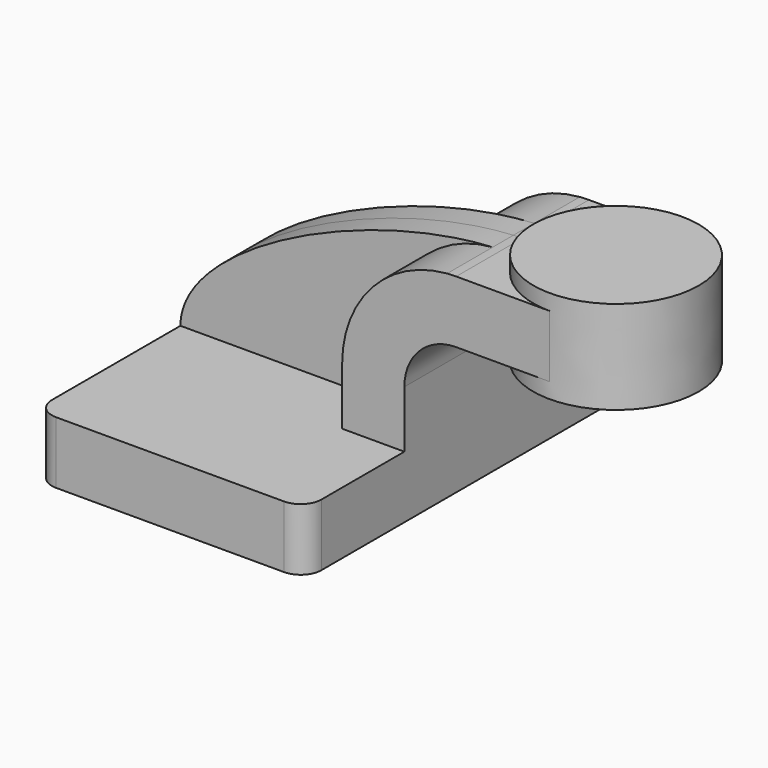
from build123d import *

# Parameters (mm, degrees)
F1_DEPTH = 63.5
F2_DEPTH = 7.9375
F3_DEPTH = 25.4
F5_R     = 6.35
F6_R     = 5.08


with BuildPart() as f1:
    # F0 (on Front) → F1 (new body, symmetric)
    with BuildSketch(Plane.XZ):
        Polygon((-41.275, -9.525), (41.275, -9.525), (41.275, 9.525), (22.225, 9.525), (-41.275, 9.525), align=None)
    extrude(amount=F1_DEPTH, both=True)

    # F0 (on Front) → F2 (join, symmetric)
    with BuildSketch(Plane.XZ):
        with BuildLine():
            add(Edge.make_bspline(
                [(-41.275, 9.525), (-41.1638136776, 33.0921679971), (14.6157059848, 59.6638127103), (54.3682484127, 61.8142414647)],
                knots=[0, 0, 0, 0, 108.9382602659, 108.9382602659, 108.9382602659, 108.9382602659], degree=3))
            Line((-41.275, 9.525), (22.225, 9.525))
            Line((22.225, 9.525), (22.225, 27.0002))
            ThreePointArc((22.225, 27.0002), (31.489638553, 50.6920018607), (54.3682484127, 61.8142414647))
        make_face()
    extrude(amount=F2_DEPTH, both=True)

    # F0 (on Front) → F3 (join, symmetric)
    with BuildSketch(Plane.XZ):
        with BuildLine():
            Line((22.225, 9.525), (41.275, 9.525))
            Line((41.275, 9.525), (41.275, 27.0002))
            ThreePointArc((41.275, 27.0002), (45.9246798487, 38.2255201513), (57.15, 42.8752))
            Line((57.15, 42.8752), (60.325, 42.8752))
            Line((60.325, 42.8752), (60.325, 61.9252))
            Line((60.325, 61.9252), (57.15, 61.9252))
            add(Edge.make_bspline(
                [(54.3682484127, 61.8142414647), (55.3047053678, 61.8648994564), (56.2322683165, 61.902005145), (57.15, 61.9252)],
                knots=[108.9382602659, 108.9382602659, 108.9382602659, 108.9382602659, 111.5045361635, 111.5045361635, 111.5045361635, 111.5045361635], degree=3))
            ThreePointArc((54.3682484127, 61.8142414647), (31.489638553, 50.6920018607), (22.225, 27.0002))
            Line((22.225, 27.0002), (22.225, 9.525))
        make_face()
        Polygon((60.325, 61.9252), (60.325, 42.8752), (85.7332489532, 42.8752), (85.7661570114, 61.9252), align=None)
    extrude(amount=F3_DEPTH, both=True)

    # F0 (on Front) → F4 (revolve)
    with BuildSketch(Plane.XZ):
        Polygon((85.7661570114, 61.9252), (85.7332489532, 42.8752), (85.725, 38.1), (111.125, 38.1), (111.125, 66.675), (85.7743620872, 66.675), align=None)
    revolve(axis=Axis((85.7496810436, 0, 52.3875), (0.0017274545, 0, 0.9999985079)))

    # F5
    f5_edges = [f1.edges().sort_by_distance(p)[0] for p in [
        (41.275, -63.5, 0),
        (-41.275, -63.5, 0),
    ]]
    fillet(f5_edges, radius=F5_R)

    # F6
    f6_edges = [f1.edges().sort_by_distance(p)[0] for p in [
        (-41.275, 63.5, 0),
        (41.275, 63.5, 0),
    ]]
    fillet(f6_edges, radius=F6_R)


solid = f1.part
